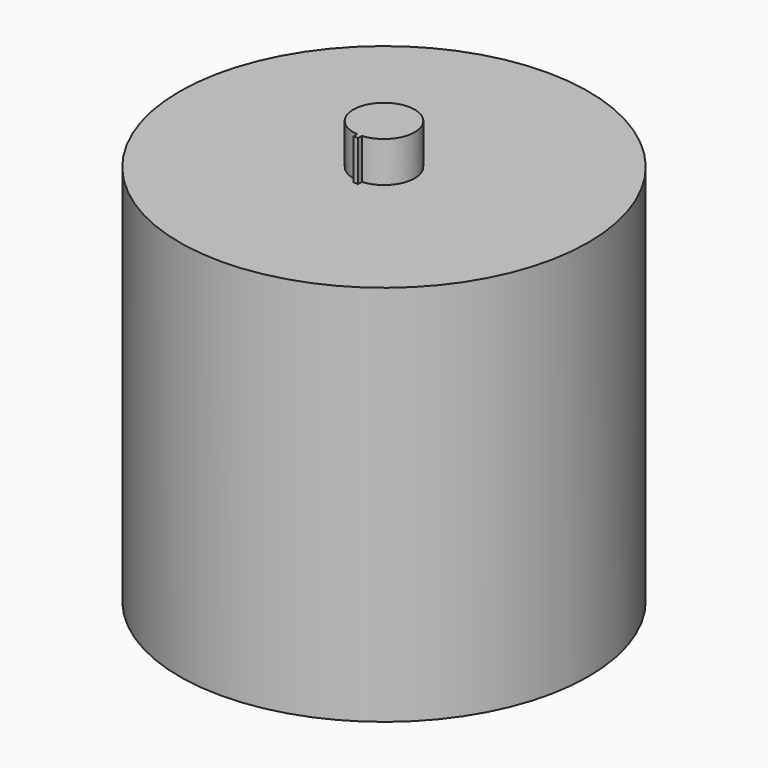
from build123d import *

# Parameters (mm, degrees)
F0_R     = 17.65
F1_DEPTH = 33
F2_R     = 2.65
F3_DEPTH = 3.5
F5_DEPTH = 3.5


with BuildPart() as f1:
    # F0 (on Top) → F1 (new body)
    with BuildSketch(Plane.XY):
        Circle(F0_R)
    extrude(amount=F1_DEPTH)

    # F2 (on face) → F3 (join)
    with BuildSketch(Plane.XY.offset(33)):
        Circle(F2_R)
    extrude(amount=F3_DEPTH)

    # F4 (on face) → F5 (join)
    with BuildSketch(Plane.XY.offset(33)):
        with BuildLine():
            ThreePointArc((0.2, -2.6424420523), (0, -2.65), (-0.2, -2.6424420523))
            Line((-0.2, -2.6424420523), (-0.2, -3.0434355587))
            Line((-0.2, -3.0434355587), (0, -3.0434355587))
            Line((0, -3.0434355587), (0.2, -3.0434355587))
            Line((0.2, -3.0434355587), (0.2, -2.6424420523))
        make_face()
    extrude(amount=F5_DEPTH)


solid = f1.part
